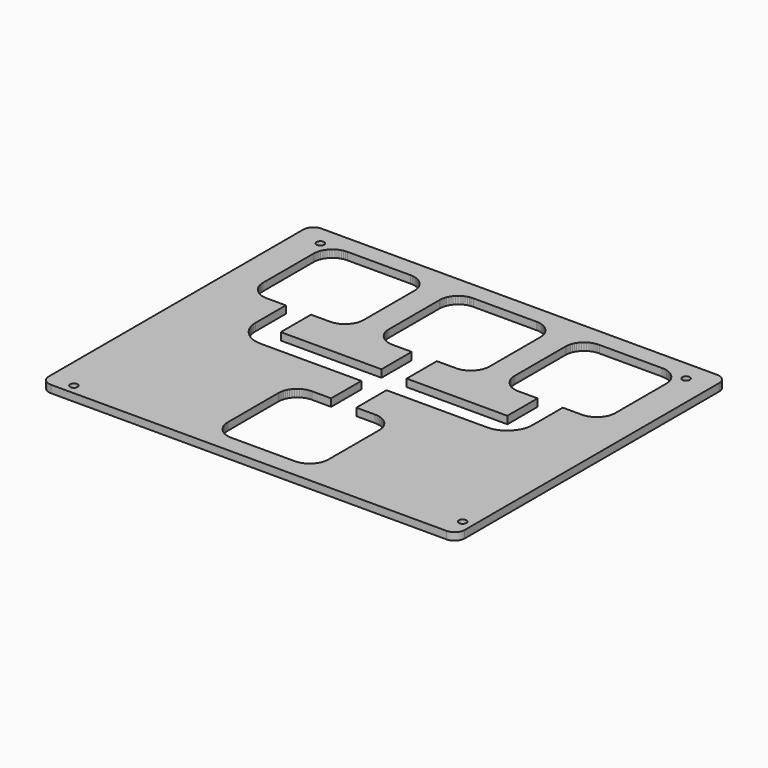
from build123d import *

# Parameters (mm, degrees)
F0_R     = 1.50018
F1_DEPTH = 3


with BuildPart() as f1:
    # F0 (on Top) → F1 (new body)
    with BuildSketch(Plane.XY):
        with BuildLine():
            ThreePointArc((83, 63.5), (81.828427, 66.328427), (79, 67.5))
            Line((79, 67.5), (-79, 67.5))
            ThreePointArc((-79, 67.5), (-81.828427, 66.328427), (-83, 63.5))
            Line((-83, 63.5), (-83, -63.5))
            ThreePointArc((-83, -63.5), (-81.828427, -66.328427), (-79, -67.5))
            Line((-79, -67.5), (79, -67.5))
            ThreePointArc((79, -67.5), (81.828427, -66.328427), (83, -63.5))
            Line((83, -63.5), (83, 63.5))
        make_face()
        with Locations((-72.999999, -63.5)):
            Circle(F0_R, mode=Mode.SUBTRACT)
        Polygon((-20.056832, -53.625039), (-20.103161, -52.772945), (-20.103161, -28.873856), (-20.103161, -27.643303), (-20.068719, -26.871676), (-19.931254, -26.00927), (-19.775958, -25.36698), (-19.558661, -24.751487), (-19.210631, -24.029111), (-18.869534, -23.46706), (-18.46669, -22.931679), (-17.903089, -22.302292), (-17.338574, -21.786469), (-16.637814, -21.280349), (-16.075432, -20.939658), (-15.486533, -20.661097), (-14.726337, -20.398486), (-14.084428, -20.243952), (-13.416027, -20.151319), (-12.563273, -20.105116), (-5.394453, -20.105116), (-5.025315, -20.105116), (-5.025315, -5.765368), (-5.025315, -5.027016), (-43.263669, -5.027016), (-45.232575, -5.027016), (-46.316698, -4.969383), (-47.191118, -4.843094), (-48.201657, -4.586072), (-49.014051, -4.291559), (-49.976482, -3.819195), (-50.726976, -3.356686), (-51.446609, -2.810231), (-52.300811, -2.043709), (-53.053921, -1.209345), (-53.600529, -0.489458), (-54.15242, 0.418465), (-54.530829, 1.199947), (-54.885388, 2.199716), (-55.095624, 3.042895), (-55.22176, 3.91701), (-55.283888, 5.024298), (-55.283888, 19.363817), (-55.283888, 20.102144), (-62.453165, 20.102144), (-62.822329, 20.102144), (-63.592482, 20.136485), (-64.455092, 20.273899), (-65.097128, 20.428788), (-65.712722, 20.645577), (-66.434996, 20.992973), (-66.99753, 21.333612), (-67.533394, 21.736177), (-68.162857, 22.29932), (-68.677969, 22.86442), (-69.184597, 23.566907), (-69.525516, 24.129517), (-69.804535, 24.718569), (-70.067476, 25.478257), (-70.222568, 26.120166), (-70.315659, 26.788516), (-70.361989, 27.640559), (-70.361989, 51.539419), (-70.361989, 52.769973), (-70.327572, 53.540482), (-70.190285, 54.402177), (-70.035192, 55.044086), (-69.818099, 55.659477), (-69.470296, 56.382006), (-69.129352, 56.944438), (-68.726534, 57.480429), (-68.162857, 58.110755), (-67.598799, 58.625791), (-66.897454, 59.131911), (-66.335149, 59.472576), (-65.746225, 59.75129), (-64.986282, 60.013952), (-64.344272, 60.168765), (-63.675845, 60.261652), (-62.823548, 60.307931), (-38.924688, 60.307931), (-37.694134, 60.307931), (-36.923448, 60.273616), (-36.060813, 60.136303), (-35.418777, 59.98149), (-34.80336, 59.764752), (-34.081391, 59.417382), (-33.519289, 59.076717), (-32.983831, 58.674102), (-32.354826, 58.110755), (-31.838799, 57.545783), (-31.331866, 56.843955), (-30.990643, 56.281396), (-30.711573, 55.692396), (-30.448505, 54.932478), (-30.29354, 54.29057), (-30.20055, 53.62227), (-30.154246, 52.769999), (-30.154246, 28.871113), (-30.154246, 27.640559), (-30.188663, 26.869923), (-30.32595, 26.008305), (-30.481093, 25.36637), (-30.698263, 24.750979), (-31.046294, 24.028349), (-31.387441, 23.465917), (-31.79059, 22.92985), (-32.354826, 22.29932), (-32.918807, 21.784437), (-33.619898, 21.278367), (-34.182026, 20.937728), (-34.770798, 20.658988), (-35.530639, 20.396251), (-36.172674, 20.241387), (-36.841329, 20.148448), (-37.694134, 20.102144), (-44.863437, 20.102144), (-45.232575, 20.102144), (-45.232575, 5.76265), (-45.232575, 5.024298), (-6.994221, 5.024298), (-5.02534, 5.024298), (-5.02534, 19.363817), (-5.02534, 20.102144), (-12.19416, 20.102144), (-12.563273, 20.102144), (-13.333528, 20.136485), (-14.195756, 20.273823), (-14.83769, 20.428687), (-15.453107, 20.645476), (-16.175305, 20.992871), (-16.737687, 21.333536), (-17.2735, 21.736101), (-17.903089, 22.29932), (-18.418659, 22.86442), (-18.92549, 23.566679), (-19.266612, 24.129289), (-19.545707, 24.71834), (-19.808724, 25.47813), (-19.963791, 26.120039), (-20.056832, 26.788415), (-20.103187, 27.640559), (-20.103187, 51.539419), (-20.103187, 52.769973), (-20.068719, 53.540482), (-19.931305, 54.401999), (-19.776009, 55.043908), (-19.558712, 55.659299), (-19.210656, 56.381929), (-18.869585, 56.944336), (-18.466715, 57.480352), (-17.903089, 58.110755), (-17.3386, 58.625791), (-16.637026, 59.131911), (-16.07467, 59.472576), (-15.485746, 59.751265), (-14.725905, 60.013952), (-14.083996, 60.168765), (-13.415595, 60.261652), (-12.563273, 60.307931), (11.333962, 60.307931), (12.564439, 60.307931), (13.335151, 60.273616), (14.197837, 60.136303), (14.839898, 59.98149), (15.455391, 59.764727), (16.177411, 59.417382), (16.739615, 59.076717), (17.275123, 58.674102), (17.904256, 58.110755), (18.420181, 57.545783), (18.927012, 56.844006), (19.268134, 56.281447), (19.547153, 55.692421), (19.810119, 54.932504), (19.965085, 54.290595), (20.058023, 53.62227), (20.104328, 52.769999), (20.104328, 28.871113), (20.104328, 27.640559), (20.069936, 26.869923), (19.932674, 26.008254), (19.777582, 25.366345), (19.560463, 24.750954), (19.212534, 24.028349), (18.871437, 23.465892), (18.468364, 22.92985), (17.904256, 22.29932), (17.340096, 21.784437), (16.638828, 21.278367), (16.07665, 20.937703), (15.487827, 20.658988), (14.727935, 20.396251), (14.085899, 20.241387), (13.41727, 20.148448), (12.564439, 20.102144), (5.393765, 20.102144), (5.024551, 20.102144), (5.024551, 5.76265), (5.024551, 5.024298), (43.263108, 5.024298), (45.232014, 5.024298), (45.232014, 19.363817), (45.232014, 20.102144), (38.062737, 20.102144), (37.693599, 20.102144), (36.923446, 20.136485), (36.061344, 20.273797), (35.419512, 20.428661), (34.80412, 20.64545), (34.081922, 20.992846), (33.519566, 21.333511), (32.983728, 21.736075), (32.354036, 22.29932), (31.838543, 22.86442), (31.331686, 23.566755), (30.990564, 24.129365), (30.711495, 24.718416), (30.448452, 25.478181), (30.293334, 26.12009), (30.200294, 26.78844), (30.153965, 27.640559), (30.153965, 51.539419), (30.153965, 52.769973), (30.188382, 53.540482), (30.325796, 54.402025), (30.481066, 55.043934), (30.698337, 55.659325), (31.046368, 56.381929), (31.387439, 56.944362), (31.790309, 57.480352), (32.354036, 58.110755), (32.918602, 58.625791), (33.620201, 59.131937), (34.182557, 59.472576), (34.771456, 59.75129), (35.531221, 60.013952), (36.173079, 60.168765), (36.841378, 60.261652), (37.693599, 60.307931), (61.592434, 60.307931), (62.822987, 60.307931), (63.593725, 60.273616), (64.456309, 60.136329), (65.098345, 59.981516), (65.713787, 59.764752), (66.435782, 59.417382), (66.99796, 59.076742), (67.533443, 58.674102), (68.162575, 58.110755), (68.678068, 57.545783), (69.184646, 56.843905), (69.525565, 56.281345), (69.804482, 55.692319), (70.067296, 54.932428), (70.222211, 54.290544), (70.315149, 53.622219), (70.361428, 52.769999), (70.361428, 28.871113), (70.361428, 27.640559), (70.327113, 26.869923), (70.189978, 26.008101), (70.035089, 25.366167), (69.818198, 24.750751), (69.470548, 24.028197), (69.129604, 23.465714), (68.726633, 22.929621), (68.162575, 22.299092), (67.598975, 21.784183), (66.898036, 21.278139), (66.335909, 20.937499), (65.74701, 20.65876), (64.98694, 20.395997), (64.344701, 20.241133), (63.675894, 20.14822), (62.822987, 20.101916), (55.653939, 20.101916), (55.284801, 20.101916), (55.284801, 5.762396), (55.284801, 5.024069), (55.227219, 3.939946), (55.10121, 3.065729), (54.844365, 2.054758), (54.550157, 1.242263), (54.078072, 0.280137), (53.615513, -0.47051), (53.068702, -1.190219), (52.301495, -2.043938), (51.467943, -2.796794), (50.748513, -3.34325), (49.840641, -3.895217), (49.059134, -4.273728), (48.059187, -4.628413), (47.215678, -4.838802), (46.341156, -4.96509), (45.233487, -5.027244), (6.994905, -5.027244), (5.025999, -5.027244), (5.025999, -19.366992), (5.025999, -20.105345), (12.195276, -20.105345), (12.564439, -20.105345), (13.335151, -20.139558), (14.198193, -20.276668), (14.840254, -20.431176), (15.455721, -20.647685), (16.177589, -20.994827), (16.739767, -21.335517), (17.275301, -21.738463), (17.90423, -22.302521), (18.420155, -22.866528), (18.926784, -23.566984), (19.267906, -24.129035), (19.54695, -24.717781), (19.810069, -25.477978), (19.965034, -26.120268), (20.057947, -26.789431), (20.104302, -27.643531), (20.104302, -51.542391), (20.104302, -52.772945), (20.069936, -53.543606), (19.932598, -54.405403), (19.77748, -55.047286), (19.560387, -55.662551), (19.212483, -56.384825), (18.871361, -56.946978), (18.468288, -57.482664), (17.90423, -58.112482), (17.340046, -58.628026), (16.639056, -59.134477), (16.076853, -59.475395), (15.48803, -59.754313), (14.728062, -60.017228), (14.086026, -60.172143), (13.417346, -60.265056), (12.564439, -60.31136), (-11.332821, -60.31136), (-12.563273, -60.31136), (-13.333528, -60.277019), (-14.195782, -60.139656), (-14.83769, -59.984742), (-15.453107, -59.767826), (-16.175305, -59.420176), (-16.737687, -59.079282), (-17.273474, -58.676337), (-17.903089, -58.112482), (-18.418659, -57.547942), (-18.92549, -56.84614), (-19.266587, -56.283784), (-19.545682, -55.69491), (-19.808699, -54.935196), (-19.963791, -54.293364), align=None, mode=Mode.SUBTRACT)
        with Locations((79, -59.500001)):
            Circle(F0_R, mode=Mode.SUBTRACT)
        with Locations((-73, 59.5)):
            Circle(F0_R, mode=Mode.SUBTRACT)
        with Locations((73, 59.5)):
            Circle(F0_R, mode=Mode.SUBTRACT)
    extrude(amount=F1_DEPTH)


solid = f1.part
